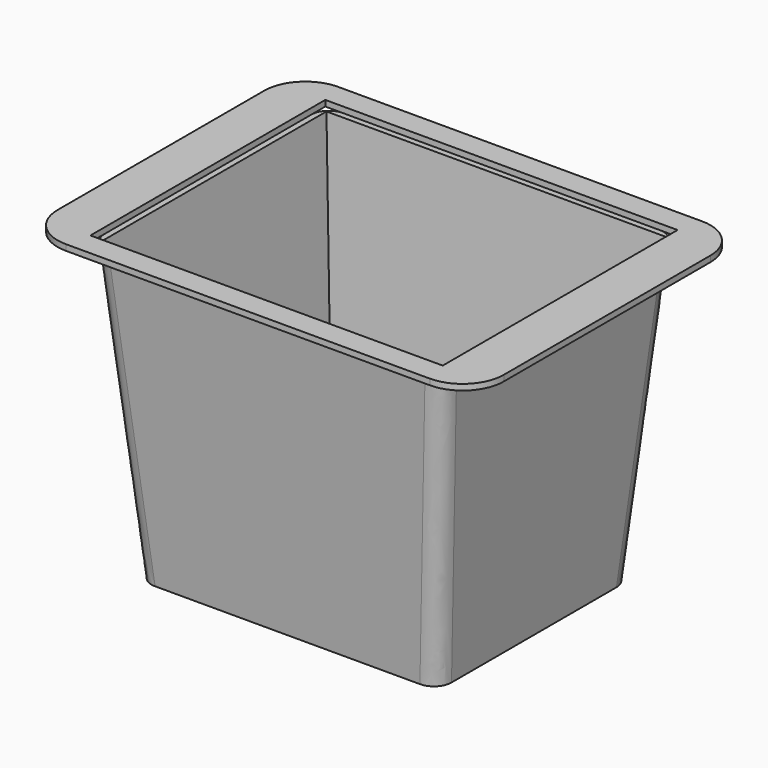
from build123d import *

# Parameters (mm, degrees)
F0_W     = 300
F0_H     = 250
F1_DEPTH = 255
F1_TAPER = 5
F2_T     = -5
F3_W     = 300
F3_H     = 250
F4_DEPTH = 5
F5_R     = 15


with BuildPart() as f1:
    # F0 (on Top) → F1 (new body)
    with BuildSketch(Plane.XY):
        Rectangle(F0_W, F0_H)
    extrude(amount=-F1_DEPTH, taper=F1_TAPER)

    # F2
    f2_openings = [f1.faces().sort_by_distance(p)[0] for p in [
        (0, 0, 0),
    ]]
    offset(amount=F2_T, openings=f2_openings)

    # F5
    f5_edges = [f1.edges().sort_by_distance(p)[0] for p in [
        (-138.845195, 113.845195, -127.5),
        (-138.845195, -113.845195, -127.5),
        (138.845195, -113.845195, -127.5),
        (138.845195, 113.845195, -127.5),
    ]]
    fillet(f5_edges, radius=F5_R)


with BuildPart() as f4:
    # F3 (on face) → F4 (new body)
    with BuildSketch(Plane.XY):
        with BuildLine():
            ThreePointArc((190, 110), (179.7487373415, 134.7487373415), (155, 145))
            Line((155, 145), (-155, 145))
            ThreePointArc((-155, 145), (-179.7487373415, 134.7487373415), (-190, 110))
            Line((-190, 110), (-190, -110))
            ThreePointArc((-190, -110), (-179.7487373415, -134.7487373415), (-155, -145))
            Line((-155, -145), (155, -145))
            ThreePointArc((155, -145), (179.7487373415, -134.7487373415), (190, -110))
            Line((190, -110), (190, 110))
        make_face()
        Rectangle(F3_W, F3_H, mode=Mode.SUBTRACT)
    extrude(amount=F4_DEPTH)


solid = Compound([f1.part, f4.part])
